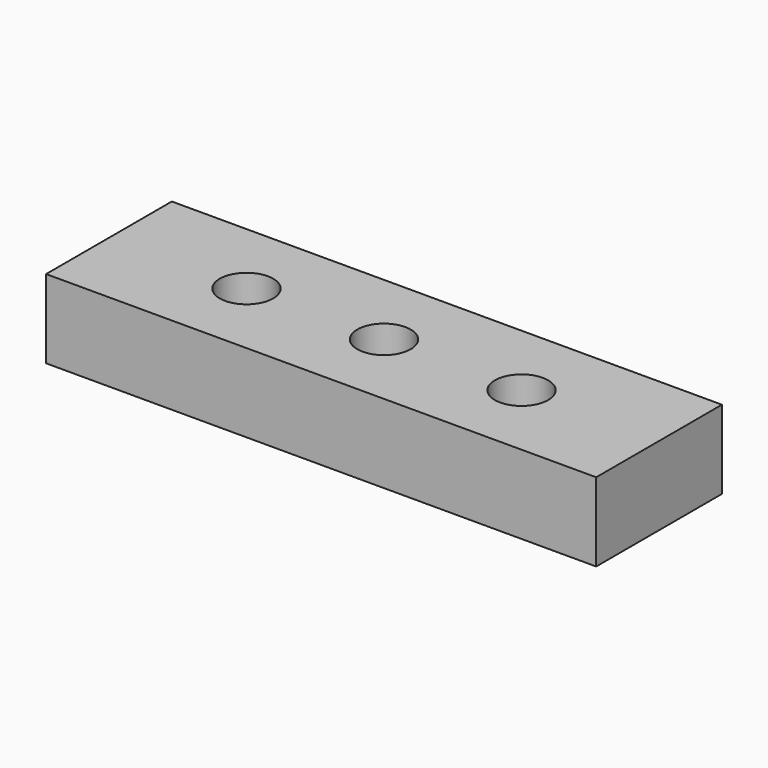
from build123d import *

# Parameters (mm, degrees)
F0_W     = 70
F0_H     = 20
F1_DEPTH = 10
F3_D     = 6.8
F3_DEPTH = 15.75
F3_TIP   = 2.0429261047


with BuildPart() as f1:
    # F0 (on Top) → F1 (new body)
    with BuildSketch(Plane.XY):
        with Locations((9.6113178879, -1.2831067624)):
            Rectangle(F0_W, F0_H)
    extrude(amount=F1_DEPTH)

    # F3
    with Locations(Plane.XY.offset(10)):
        with Locations((27.1113178879, -1.2831067624), (9.6113178879, -1.2831067624), (-7.8886821121, -1.2831067624)):
            Hole(F3_D / 2, depth=F3_DEPTH)
            with Locations((0, 0, -(F3_DEPTH + F3_TIP / 2))):  # 118° drill point
                Cone(0, F3_D / 2, F3_TIP, mode=Mode.SUBTRACT)


solid = f1.part
